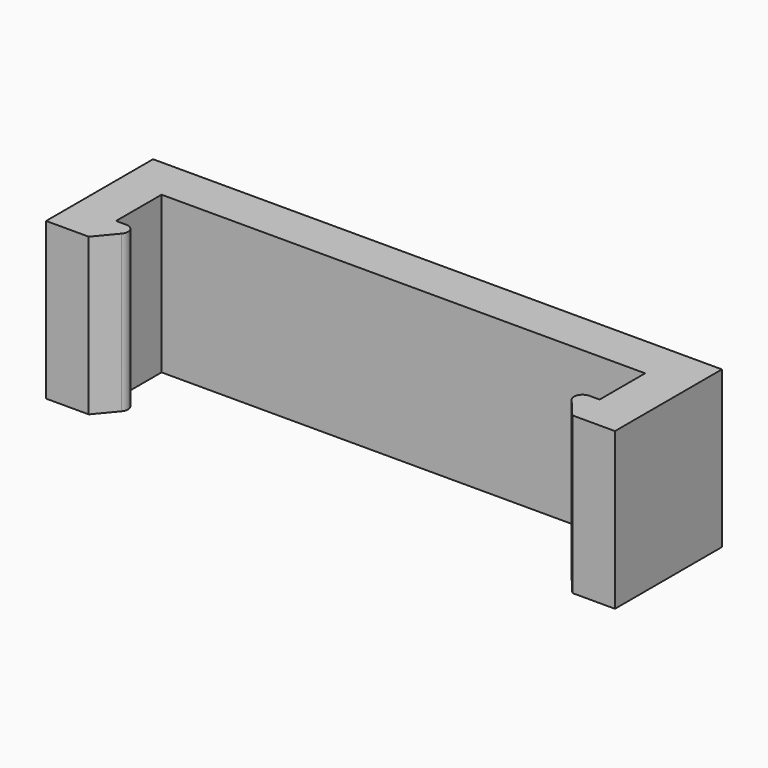
from build123d import *

# Parameters (mm, degrees)
PAD_DEPTH   = 5.5
FILLET_R    = 0.3
FILLET001_R = 0.3


with BuildPart() as part:
    # Sketch → Pad (new body)
    with BuildSketch(Plane.XY):
        Polygon((-10, 1.5), (10, 1.5), (10, -3.2), (8.5, -3.2), (7.5, -2), (8.5, -2), (8.5, 0), (-8.5, 0), (-8.5, -2), (-7.5, -2), (-8.5, -3.2), (-10, -3.2), align=None)
    extrude(amount=PAD_DEPTH)

    # Fillet
    fillet_edges = [part.edges().sort_by_distance(p)[0] for p in [
        (-7.5, -2, 2.75),
    ]]
    fillet(fillet_edges, radius=FILLET_R)

    # Fillet001
    fillet001_edges = [part.edges().sort_by_distance(p)[0] for p in [
        (7.5, -2, 2.75),
    ]]
    fillet(fillet001_edges, radius=FILLET001_R)


solid = part.part
